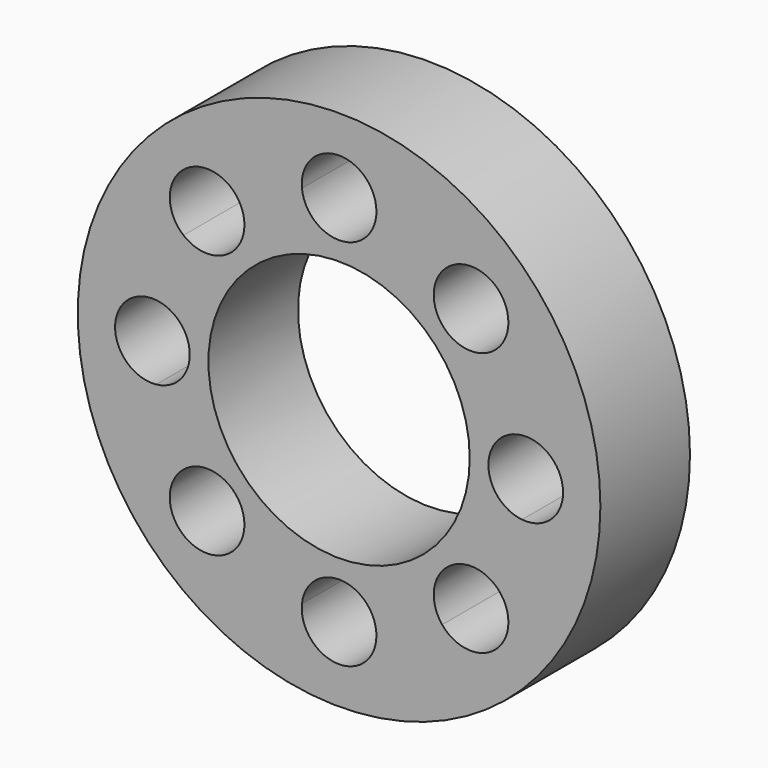
from build123d import *

# Parameters (mm, degrees)
F0_R     = 22.225
F0_R_2   = 11.1125
F1_DEPTH = 9.525


with BuildPart() as f1:
    # F0 (on Front) → F1 (new body)
    with BuildSketch(Plane.XZ):
        Circle(F0_R)
        with BuildLine():
            ThreePointArc((13.234624, 8.767003), (14.666588, 6.075099), (15.5575, 3.159085))
            ThreePointArc((15.5575, 3.159085), (18.004855, 2.354643), (19.05, 0))
            ThreePointArc((19.05, 0), (18.004855, -2.354643), (15.5575, -3.159085))
            ThreePointArc((15.5575, -3.159085), (14.666588, -6.075099), (13.234624, -8.767003))
            ThreePointArc((13.234624, -8.767003), (14.094132, -9.864974), (14.40032, -11.22532))
            ThreePointArc((14.40032, -11.22532), (12.291966, -14.215787), (8.767003, -13.234624))
            ThreePointArc((8.767003, -13.234624), (6.075099, -14.666588), (3.159085, -15.5575))
            ThreePointArc((3.159085, -15.5575), (3.171019, -15.716051), (3.175, -15.875))
            ThreePointArc((3.175, -15.875), (-0.158949, -19.046019), (-3.159085, -15.5575))
            ThreePointArc((-3.159085, -15.5575), (-6.075099, -14.666588), (-8.767003, -13.234624))
            ThreePointArc((-8.767003, -13.234624), (-13.470384, -13.470384), (-13.234624, -8.767003))
            ThreePointArc((-13.234624, -8.767003), (-14.666588, -6.075099), (-15.5575, -3.159085))
            ThreePointArc((-15.5575, -3.159085), (-19.05, 0), (-15.5575, 3.159085))
            ThreePointArc((-15.5575, 3.159085), (-14.666588, 6.075099), (-13.234624, 8.767003))
            ThreePointArc((-13.234624, 8.767003), (-13.470384, 13.470384), (-8.767003, 13.234624))
            ThreePointArc((-8.767003, 13.234624), (-6.075099, 14.666588), (-3.159085, 15.5575))
            ThreePointArc((-3.159085, 15.5575), (-0.158949, 19.046019), (3.175, 15.875))
            ThreePointArc((3.175, 15.875), (3.171019, 15.716051), (3.159085, 15.5575))
            ThreePointArc((3.159085, 15.5575), (6.075099, 14.666588), (8.767003, 13.234624))
            ThreePointArc((8.767003, 13.234624), (12.291966, 14.215787), (14.40032, 11.22532))
            ThreePointArc((14.40032, 11.22532), (14.094132, 9.864974), (13.234624, 8.767003))
        make_face(mode=Mode.SUBTRACT)
        with BuildLine():
            ThreePointArc((15.5575, -3.159085), (12.7, 0), (15.5575, 3.159085))
            ThreePointArc((15.5575, 3.159085), (14.666588, 6.075099), (13.234624, 8.767003))
            ThreePointArc((13.234624, 8.767003), (8.980256, 8.980256), (8.767003, 13.234624))
            ThreePointArc((8.767003, 13.234624), (6.075099, 14.666588), (3.159085, 15.5575))
            ThreePointArc((3.159085, 15.5575), (0, 12.7), (-3.159085, 15.5575))
            ThreePointArc((-3.159085, 15.5575), (-6.075099, 14.666588), (-8.767003, 13.234624))
            ThreePointArc((-8.767003, 13.234624), (-8.234854, 12.291966), (-8.05032, 11.22532))
            ThreePointArc((-8.05032, 11.22532), (-9.864974, 8.356508), (-13.234624, 8.767003))
            ThreePointArc((-13.234624, 8.767003), (-14.666588, 6.075099), (-15.5575, 3.159085))
            ThreePointArc((-15.5575, 3.159085), (-13.520357, 2.129855), (-12.7, 0))
            ThreePointArc((-12.7, 0), (-13.520357, -2.129855), (-15.5575, -3.159085))
            ThreePointArc((-15.5575, -3.159085), (-14.666588, -6.075099), (-13.234624, -8.767003))
            ThreePointArc((-13.234624, -8.767003), (-9.864974, -8.356508), (-8.05032, -11.22532))
            ThreePointArc((-8.05032, -11.22532), (-8.234854, -12.291966), (-8.767003, -13.234624))
            ThreePointArc((-8.767003, -13.234624), (-6.075099, -14.666588), (-3.159085, -15.5575))
            ThreePointArc((-3.159085, -15.5575), (0, -12.7), (3.159085, -15.5575))
            ThreePointArc((3.159085, -15.5575), (6.075099, -14.666588), (8.767003, -13.234624))
            ThreePointArc((8.767003, -13.234624), (8.980256, -8.980256), (13.234624, -8.767003))
            ThreePointArc((13.234624, -8.767003), (14.666588, -6.075099), (15.5575, -3.159085))
        make_face()
        Circle(F0_R_2, mode=Mode.SUBTRACT)
    extrude(amount=F1_DEPTH)


solid = f1.part
